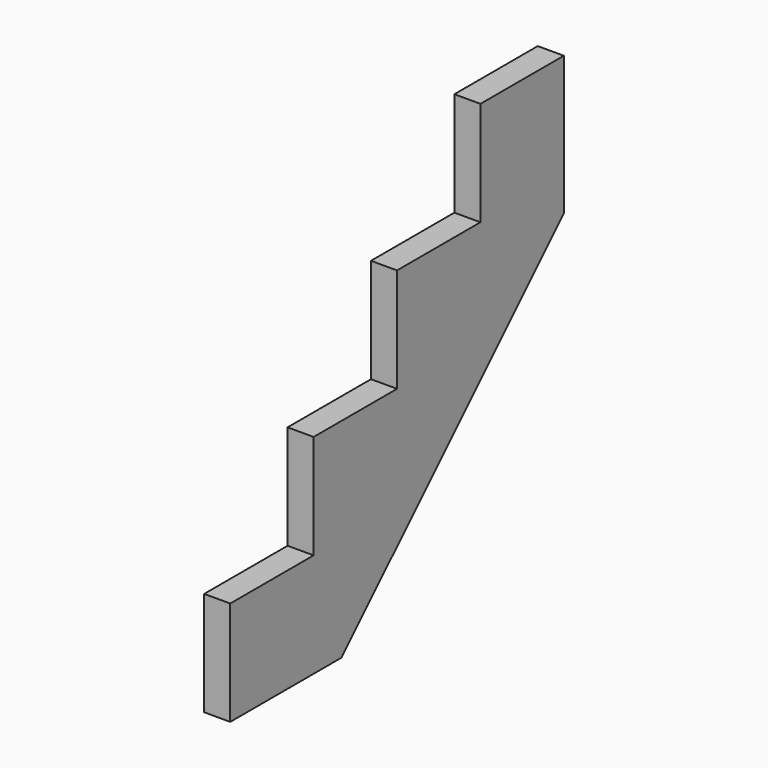
from build123d import *

# Parameters (mm, degrees)
F1_DEPTH = 38.1


with BuildPart() as f1:
    # F0 (on Right) → F1 (new body)
    with BuildSketch(Plane.YZ):
        Polygon((-457.2, -304.8), (-457.2, -457.2), (-609.6, -457.2), (-609.6, -609.6), (-406.4, -609.6), (0, -203.2), (0, 0), (-152.4, 0), (-152.4, -152.4), (-304.8, -152.4), (-304.8, -304.8), align=None)
    extrude(amount=-F1_DEPTH)


solid = f1.part
